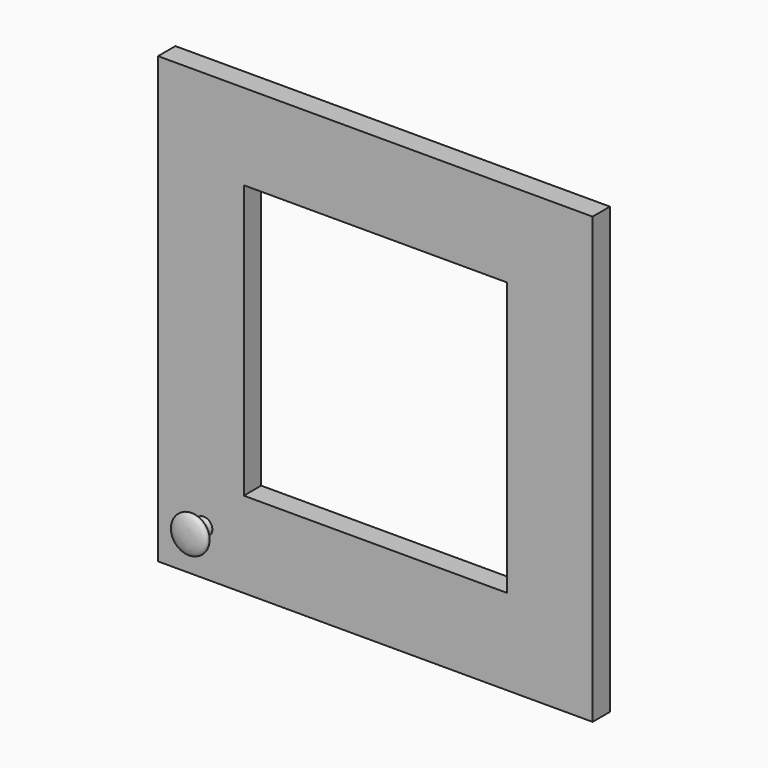
from build123d import *

# Parameters (mm, degrees)
CLONE2D011_W = 380
CLONE2D011_H = 389
PAD_DEPTH    = 19
SKETCH_W     = 230
SKETCH_H     = 239
POCKET_DEPTH = 19.001


with BuildPart() as part:
    # Clone2D011 → Pad (new body)
    with BuildSketch(Plane.XZ):
        with Locations((190, 194.5)):
            Rectangle(CLONE2D011_W, CLONE2D011_H)
    extrude(amount=PAD_DEPTH)

    # Clone2D010 → Revolution006 (revolve)
    with BuildSketch(Plane(origin=(40, -19, 40), x_dir=(1, 0, 0), z_dir=(0, 0, 1))):
        with BuildLine():
            Line((0, 0), (0, -20))
            add(Edge.make_bspline(
                [(0, -20), (-18, -20), (-18, -9.133286), (-4.506424, -9.133286), (-7.5, 0)],
                knots=[0, 0, 0, 0, 0.5, 1, 1, 1, 1], degree=3, weights=[7, 6.116989, 5.810816, 6.060123, 5.999522]))
            Line((-7.5, 0), (0, 0))
        make_face()
    revolve(axis=Axis((40, -19, 40), (0, 1, 0)))

    # Sketch (on Face5 of Revolution006) → Pocket (cut, through all)
    with BuildSketch(Plane.XZ.offset(19)):
        with Locations((190, 194.5)):
            Rectangle(SKETCH_W, SKETCH_H)
    extrude(amount=-POCKET_DEPTH, mode=Mode.SUBTRACT)


with BuildPart() as part_1:
    # Body placement: moved
    add(part.part.moved(Location((395.5, 0, 899))))


with BuildPart() as part_2:
    # Clone002 placement: moved
    add(part_1.part.moved(Location((-395.5, 0, -899))))


with BuildPart() as part_3:
    # Body016 placement: moved
    add(part_2.part.moved(Location((1170, 0, 899))))


solid = part_3.part
